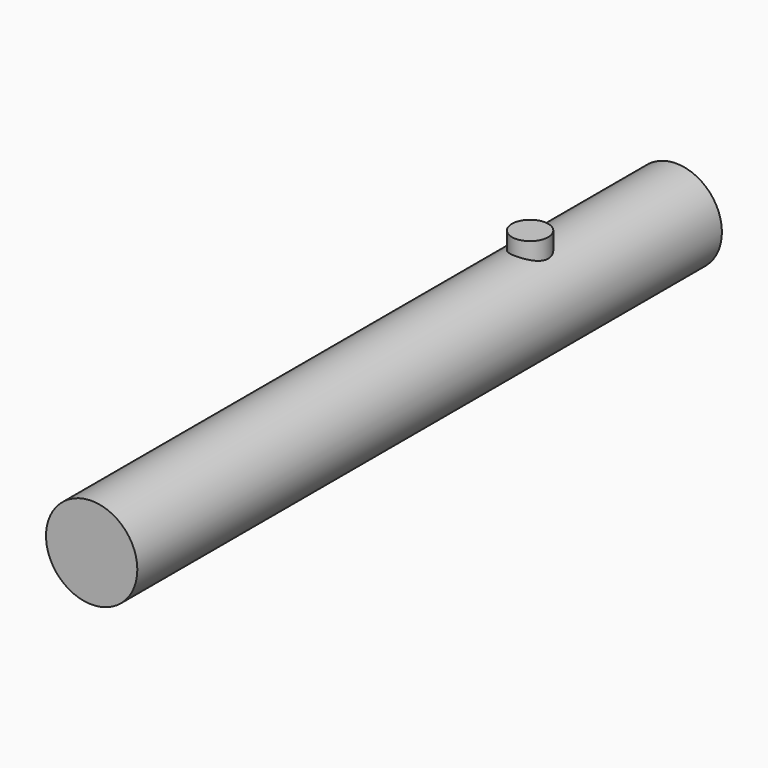
from build123d import *

# Parameters (mm, degrees)
F0_R          = 76.2
F1_DEPTH      = 914.4
F1_DEPTH_BACK = 304.8
F2_R          = 30.226
F3_DEPTH      = 101.6


with BuildPart() as f1:
    # F0 (on Front) → F1 (new body, two sides)
    with BuildSketch(Plane.XZ) as f1_sk:
        Circle(F0_R)
    extrude(amount=F1_DEPTH)
    extrude(f1_sk.sketch, amount=-F1_DEPTH_BACK)

    # F2 (on Top) → F3 (join)
    with BuildSketch(Plane.XY):
        Circle(F2_R)
    extrude(amount=F3_DEPTH)


solid = f1.part
